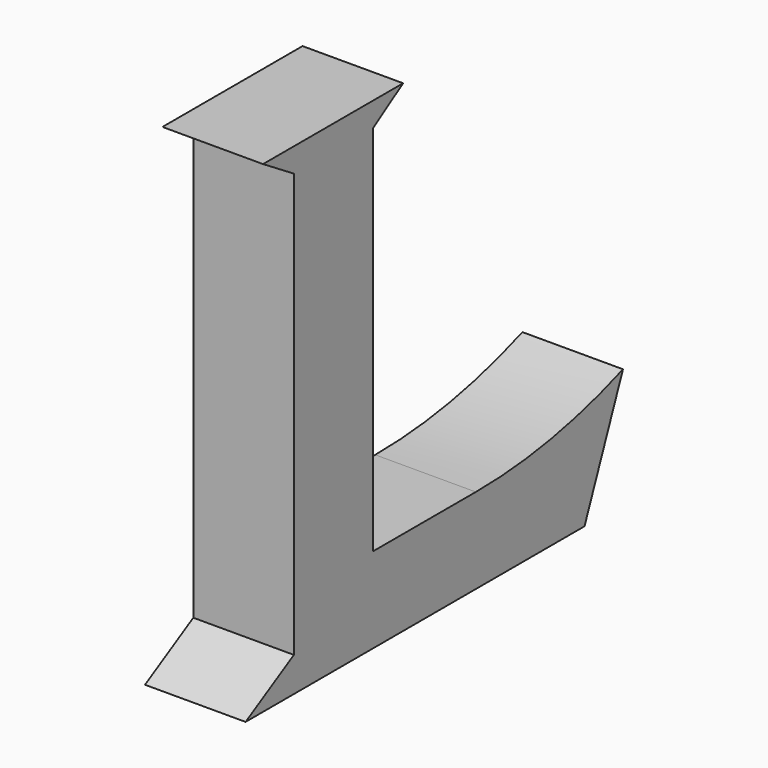
from build123d import *

# Parameters (mm, degrees)
F1_DEPTH = 12.05993
F3_DEPTH = 12.23708
F4_W     = 63.86287231
F4_H     = 63.649994554
F5_DEPTH = 2.13452
F6_R     = 49.0086529646
F6_W     = 63.86287231
F6_H     = 63.649994554
F7_DEPTH = 9.144


with BuildPart() as f1:
    # F0 (on Right) → F1 (new body)
    with BuildSketch(Plane.YZ):
        with BuildLine():
            Line((0, 4.1334182024), (-7.2379880522, 0))
            Line((-7.2379880522, 0), (43.5620119478, 0))
            Line((43.5620119478, 0), (49.3261106312, 14.2325060442))
            ThreePointArc((49.3261106312, 14.2325060442), (38.4755079225, 11.2506522164), (27.267575264, 10.2460244671))
            Line((27.267575264, 10.2460244671), (11.8531771004, 10.2460244671))
            Line((11.8531771004, 10.2460244671), (11.8531771004, 54.8946261406))
            Line((11.8531771004, 54.8946261406), (16.3711905479, 57.8180477023))
            Line((16.3711905479, 57.8180477023), (-4.6242829412, 57.8180477023))
            Line((-4.6242829412, 57.8180477023), (0, 54.9334182024))
            Line((0, 54.9334182024), (0, 4.1334182024))
        make_face()
    extrude(amount=F1_DEPTH)


with BuildPart() as f3:
    # F2 (on Right) → F3 (new body)
    with BuildSketch(Plane.YZ):
        Polygon((-8.8458675891, -1.5856656246), (-10.2534089237, -3.0272443658), (53.2465910763, -3.0272443658), (51.5569411218, -1.4188061468), align=None)
        Polygon((-10.2534089237, 60.4727556342), (-10.2534089237, -3.0272443658), (-8.8458675891, -1.5856656246), (-8.8458675891, 58.8171444833), align=None)
        Polygon((51.5569411218, -1.4188061468), (53.2465910763, -3.0272443658), (53.2465910763, 60.4727556342), (51.5569411218, 58.8171444833), align=None)
        Polygon((53.2465910763, 60.4727556342), (-10.2534089237, 60.4727556342), (-8.8458675891, 58.8171444833), (51.5569411218, 58.8171444833), align=None)
    extrude(amount=F3_DEPTH)


with BuildPart() as f5:
    # F4 (on Right) → F5 (new body)
    with BuildSketch(Plane.YZ):
        with Locations((21.525492426, 28.6787872901)):
            Rectangle(F4_W, F4_H)
    extrude(amount=-F5_DEPTH)

    # F6 (on face) → F7 (join)
    with BuildSketch(Plane(origin=(-2.13452, 0, 0), x_dir=(0, -1, 0), z_dir=(-1, 0, 0))):
        with Locations((-21.525492426, 28.6787872901)):
            Circle(F6_R)
        with Locations((-21.525492426, 28.6787872901)):
            Rectangle(F6_W, F6_H, mode=Mode.SUBTRACT)
    extrude(amount=-F7_DEPTH)


solid = f1.part
